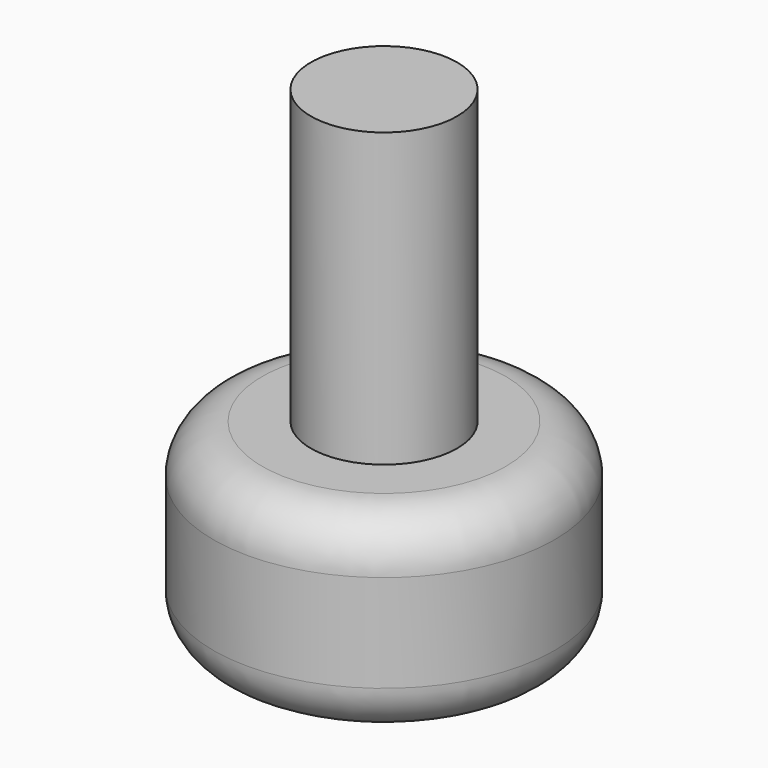
from build123d import *

# Parameters (mm, degrees)
F0_R     = 88.9
F0_R_2   = 38.1
F1_DEPTH = 101.6
F2_DEPTH = 254
F3_R     = 25.4
F4_R     = 25.4
F6_DEPTH = 50.8


with BuildPart() as f1:
    # F0 (on Top) → F1 (new body)
    with BuildSketch(Plane.XY):
        Circle(F0_R)
        Circle(F0_R_2, mode=Mode.SUBTRACT)
    extrude(amount=F1_DEPTH)

    # F0 (on Top) → F2 (join)
    with BuildSketch(Plane.XY):
        Circle(F0_R_2)
    extrude(amount=F2_DEPTH)

    # F3
    f3_edges = [f1.edges().sort_by_distance(p)[0] for p in [
        (-88.9, 0, 101.6),
    ]]
    fillet(f3_edges, radius=F3_R)

    # F4
    f4_edges = [f1.edges().sort_by_distance(p)[0] for p in [
        (-88.9, 0, 0),
    ]]
    fillet(f4_edges, radius=F4_R)

    # F5 (on face) → F6 (cut)
    with BuildSketch(Plane(origin=(0, 0, 0), x_dir=(1, 0, 0), z_dir=(0, 0, -1))):
        Polygon((6.030925, 19.711075), (-3.144438, 19.711075), (-3.144438, 12.908415), (-6.669075, 12.908415), (-6.669075, 3.30908), (-3.144438, 3.30908), (-3.144438, -13.90423), (-6.669075, -13.90423), (-6.669075, -18.388925), (1.821126, -18.388925), (1.821126, -2.981285), (6.030925, -2.981285), (6.030925, 3.30908), (1.821126, 3.30908), (1.821126, 12.908415), (6.030925, 12.908415), align=None)
    extrude(amount=-F6_DEPTH, mode=Mode.SUBTRACT)


solid = f1.part
